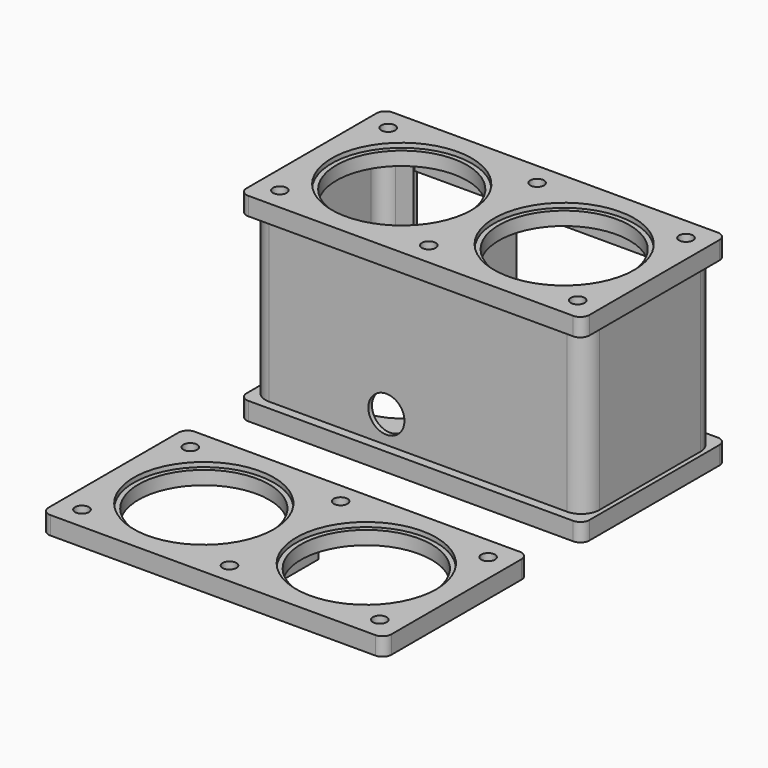
from build123d import *

# Parameters (mm, degrees)
F0_W      = 482.6
F0_H      = 254
F1_DEPTH  = 25.4
F2_W      = 12.7
F2_H      = 101.6
F3_DEPTH  = 228.6
F4_W      = 482.6
F4_H      = 254
F5_DEPTH  = 25.4
F6_R      = 25.4
F7_DEPTH  = 6.35
F9_R      = 9.7234375
F9_R_2    = 91.948
F10_DEPTH = 25.4
F9_R_3    = 98.552
F11_DEPTH = 6.35
F12_R     = 69.85
F12_R_2   = 6.746875
F13_DEPTH = 25.4
F15_DEPTH = 25.4
F17_DEPTH = 25.4
F18_W     = 482.6
F18_H     = 254
F18_R     = 9.7234375
F18_R_2   = 98.552
F19_DEPTH = 25.4
F18_R_3   = 91.948
F20_DEPTH = 19.05
F21_W     = 12.7
F21_H     = 101.6
F22_DEPTH = 25.4
F23_R     = 12.7
F23_2_R   = 12.7


with BuildPart() as f1:
    # F0 (on Top) → F1 (new body)
    with BuildSketch(Plane.XY):
        Rectangle(F0_W, F0_H)
    extrude(amount=F1_DEPTH)

    # F2 (on face) → F3 (join)
    with BuildSketch(Plane.XY.offset(25.4)):
        with BuildLine():
            Line((-209.5499999999, -114.3), (209.5500000001, -114.3))
            ThreePointArc((209.5500000001, -114.3), (227.5105122422, -106.8605122421), (234.95, -88.9))
            Line((234.95, -88.9), (234.95, 88.9))
            ThreePointArc((234.95, 88.9), (227.5105122421, 106.8605122421), (209.55, 114.3))
            Line((209.55, 114.3), (184.1499999999, 114.3))
            Line((184.1499999999, 114.3), (184.1499999999, 107.95))
            Line((184.1499999999, 107.95), (209.5500000002, 107.95))
            ThreePointArc((209.5500000002, 107.95), (223.0203841818, 102.3703841816), (228.6000000002, 88.9))
            Line((228.6000000002, 88.9), (228.5999999998, -88.9))
            ThreePointArc((228.5999999998, -88.9), (223.0203841814, -102.3703841816), (209.5499999998, -107.95))
            Line((209.5499999998, -107.95), (-209.5500000002, -107.95))
            ThreePointArc((-209.5500000002, -107.95), (-223.0203841818, -102.3703841816), (-228.6000000002, -88.9))
            Line((-228.6000000002, -88.9), (-228.5999999998, 88.9))
            ThreePointArc((-228.5999999998, 88.9), (-223.0203841814, 102.3703841816), (-209.5499999998, 107.95))
            Line((-209.5499999998, 107.95), (-184.1380936859, 107.95))
            Line((-184.1380936859, 107.95), (-184.1500000001, 114.3))
            Line((-184.1500000001, 114.3), (-209.55, 114.3))
            ThreePointArc((-209.55, 114.3), (-227.5105122422, 106.8605122422), (-234.95, 88.9))
            Line((-234.95, 88.9), (-234.95, -88.9))
            ThreePointArc((-234.95, -88.9), (-227.5105122421, -106.8605122421), (-209.5499999999, -114.3))
        make_face()
        Rectangle(F2_W, F2_H)
    extrude(amount=F3_DEPTH)

    # F4 (on face) → F5 (join)
    with BuildSketch(Plane.XY.offset(254)):
        Rectangle(F4_W, F4_H)
    extrude(amount=F5_DEPTH)

    # F6 (on face) → F7 (cut)
    with BuildSketch(Plane.XZ.offset(114.3)):
        with Locations((-44.45, 63.5)):
            Circle(F6_R)
    extrude(amount=-F7_DEPTH, mode=Mode.SUBTRACT)

    # F9 (on face) → F10 (cut)
    with BuildSketch(Plane.XY.offset(279.4)):
        with Locations((-209.55, 95.25)):
            Circle(F9_R)
        with Locations((0, 95.25)):
            Circle(F9_R)
        with Locations((-114.3, 0)):
            Circle(F9_R_2)
        with Locations((114.3, 0)):
            Circle(F9_R_2)
        with Locations((209.55, 95.25)):
            Circle(F9_R)
        with Locations((209.55, -95.25)):
            Circle(F9_R)
        with Locations((0, -95.25)):
            Circle(F9_R)
        with Locations((-209.55, -95.25)):
            Circle(F9_R)
    extrude(amount=-F10_DEPTH, mode=Mode.SUBTRACT)

    # F9 (on face) → F11 (cut)
    with BuildSketch(Plane.XY.offset(279.4)):
        with Locations((-114.3, 0)):
            Circle(F9_R_3)
        with Locations((-114.3, 0)):
            Circle(F9_R_2, mode=Mode.SUBTRACT)
        with Locations((114.3, 0)):
            Circle(F9_R_3)
        with Locations((114.3, 0)):
            Circle(F9_R_2, mode=Mode.SUBTRACT)
    extrude(amount=-F11_DEPTH, mode=Mode.SUBTRACT)

    # F12 (on face) → F13 (cut)
    with BuildSketch(Plane(origin=(0, 0, 0), x_dir=(1, 0, 0), z_dir=(0, 0, -1))):
        with Locations((114.3, 0)):
            Circle(F12_R)
        with Locations((177.8083712882, -63.5083712882)):
            Circle(F12_R_2)
        with Locations((177.8083712882, 63.5083712882)):
            Circle(F12_R_2)
        with Locations((50.7916287118, 63.5083712882)):
            Circle(F12_R_2)
        with Locations((50.7916287118, -63.5083712882)):
            Circle(F12_R_2)
        with Locations((-50.7916287118, -63.5083712882)):
            Circle(F12_R_2)
        with Locations((-114.3, 0)):
            Circle(F12_R)
        with Locations((-50.7916287118, 63.5083712882)):
            Circle(F12_R_2)
        with Locations((-177.8083712882, 63.5083712882)):
            Circle(F12_R_2)
        with Locations((-177.8083712882, -63.5083712882)):
            Circle(F12_R_2)
    extrude(amount=-F13_DEPTH, mode=Mode.SUBTRACT)

    # F23
    f23_edges = [f1.edges().sort_by_distance(p)[0] for p in [
        (241.3, 127, 266.7),
        (241.3, -127, 266.7),
        (241.3, 127, 12.7),
        (241.3, -127, 12.7),
        (-241.3, -127, 266.7),
        (-241.3, 127, 266.7),
        (-241.3, 127, 12.7),
        (-241.3, -127, 12.7),
    ]]
    fillet(f23_edges, radius=F23_R)


with BuildPart() as f15:
    # F14 (on face) → F15 (new body)
    with BuildSketch(Plane.XY.offset(25.4)):
        Polygon((184.1499999999, 114.3), (-184.1500000001, 114.3), (-184.1410702644, 109.5375), (184.1499999999, 109.5375), align=None)
    extrude(amount=F15_DEPTH)


with BuildPart() as f17:
    # F16 (on face) → F17 (new body)
    with BuildSketch(Plane(origin=(0, 0, 254), x_dir=(1, 0, 0), z_dir=(0, 0, -1))):
        Polygon((184.1499999999, -109.5375), (-184.1410702644, -109.5375), (-184.1500000001, -114.3), (184.1499999999, -114.3), align=None)
    extrude(amount=F17_DEPTH)


with BuildPart() as f19:
    # F18 (on Top) → F19 (new body)
    with BuildSketch(Plane.XY):
        with Locations((0, -348.1589360902)):
            Rectangle(F18_W, F18_H)
        with Locations((-209.55, -443.4089360902)):
            Circle(F18_R, mode=Mode.SUBTRACT)
        with Locations((-114.3, -348.1589360902)):
            Circle(F18_R_2, mode=Mode.SUBTRACT)
        with Locations((0, -445.9286167641)):
            Circle(F18_R, mode=Mode.SUBTRACT)
        with Locations((209.55, -443.4089360902)):
            Circle(F18_R, mode=Mode.SUBTRACT)
        with Locations((114.3, -348.1589360902)):
            Circle(F18_R_2, mode=Mode.SUBTRACT)
        with Locations((-209.55, -252.9089360902)):
            Circle(F18_R, mode=Mode.SUBTRACT)
        with Locations((0, -250.3892554164)):
            Circle(F18_R, mode=Mode.SUBTRACT)
        with Locations((209.55, -252.9089360902)):
            Circle(F18_R, mode=Mode.SUBTRACT)
    extrude(amount=F19_DEPTH)

    # F18 (on Top) → F20 (join)
    with BuildSketch(Plane.XY):
        with Locations((114.3, -348.1589360902)):
            Circle(F18_R_2)
        with Locations((114.3, -348.1589360902)):
            Circle(F18_R_3, mode=Mode.SUBTRACT)
        with Locations((-114.3, -348.1589360902)):
            Circle(F18_R_2)
        with Locations((-114.3, -348.1589360902)):
            Circle(F18_R_3, mode=Mode.SUBTRACT)
    extrude(amount=F20_DEPTH)

    # F21 (on face) → F22 (join)
    with BuildSketch(Plane(origin=(0, 0, 0), x_dir=(1, 0, 0), z_dir=(0, 0, -1))):
        with Locations((0, 348.1589360902)):
            Rectangle(F21_W, F21_H)
    extrude(amount=F22_DEPTH)

    # F23#2
    f23_2_edges = [f19.edges().sort_by_distance(p)[0] for p in [
        (-241.3, -221.158936, 12.7),
        (-241.3, -475.158936, 12.7),
        (241.3, -221.158936, 12.7),
        (241.3, -475.158936, 12.7),
    ]]
    fillet(f23_2_edges, radius=F23_2_R)


solid = Compound([f1.part, f15.part, f17.part, f19.part])
